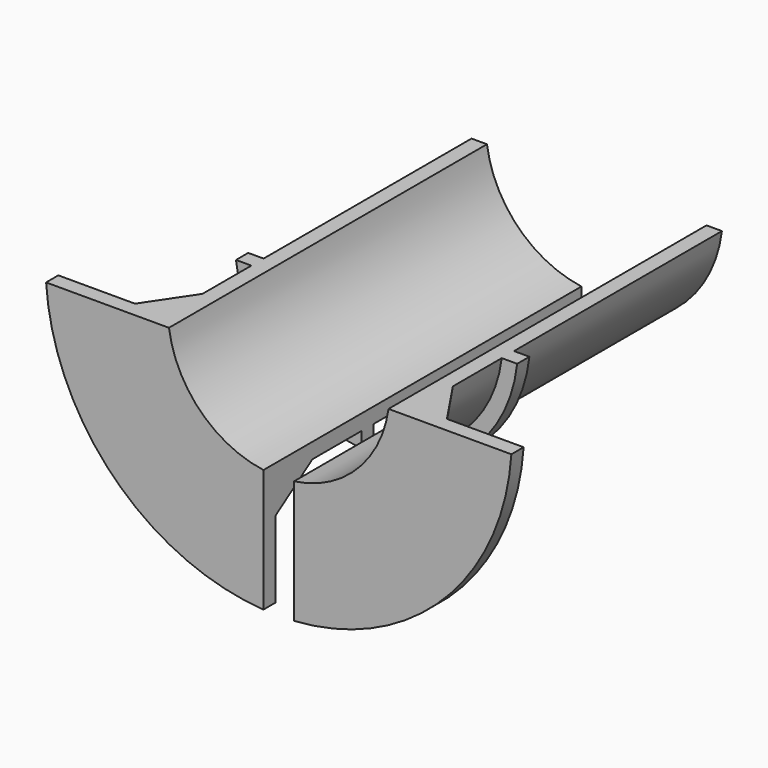
from build123d import *

# Parameters (mm, degrees)
EXTRUDE012_DEPTH = 30


with BuildPart() as extrude012:
    # Sketch016 → Extrude012 (new body)
    with BuildSketch(Plane(origin=(0, 29, 0), x_dir=(-1, 0, 0), z_dir=(0, 1, 0))):
        Polygon((-16, 16), (16, 16), (16, -1), (1, -1), (1, -16), (-1, -16), (-1, -1), (-16, -1), align=None)
    extrude(amount=-EXTRUDE012_DEPTH)


with BuildPart() as obj1:
    # Sketch015 → Revolve (revolve)
    with BuildSketch(Plane(origin=(0, 0, 0), x_dir=(0, -1, 0), z_dir=(-1, 0, 0))):
        Polygon((-28.3, -7.25), (-2.3, -7.25), (-2.3, -15.25), (-3.3, -15.25), (-3.3, -10.25), (-6.3, -8.25), (-10.3, -8.25), (-10.3, -9.25), (-11.3, -9.25), (-11.3, -8.25), (-28.3, -8.25), align=None)
    revolve(axis=Axis((0, 0, 0), (0, 1, 0)))

    # Cut005: cut Extrude012
    add(extrude012.part, mode=Mode.SUBTRACT)


solid = obj1.part
